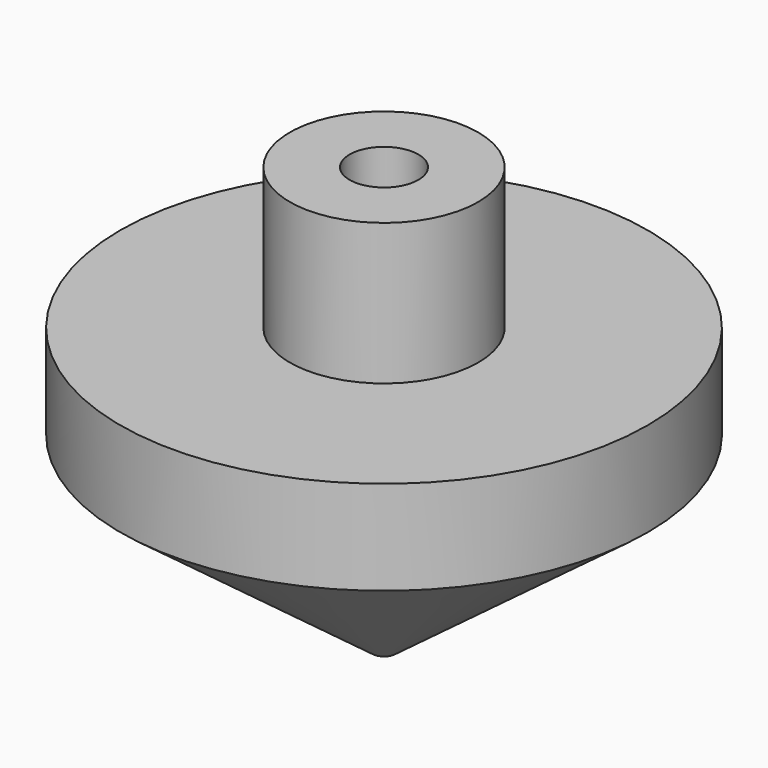
from build123d import *

# Parameters (mm, degrees)
F2_R     = 4.6355
F3_DEPTH = 13.97
F4_R     = 1.5875
F5_DEPTH = 20.32


with BuildPart() as f1:
    # F0 (on Front) → F1 (revolve)
    with BuildSketch(Plane.XZ):
        Polygon((0, 58.42), (0, 0), (35.56, 26.67), (35.56, 39.37), (12.7, 39.37), (12.7, 58.42), align=None)
    revolve(axis=Axis((0, 0, 29.21), (0, 0, -1)))

    # F2 (on face) → F3 (cut)
    with BuildSketch(Plane.XY.offset(58.42)):
        Circle(F2_R)
    extrude(amount=-F3_DEPTH, mode=Mode.SUBTRACT)

    # F4 (on Top) → F5 (cut)
    with BuildSketch(Plane.XY):
        Circle(F4_R)
    extrude(amount=F5_DEPTH, mode=Mode.SUBTRACT)


solid = f1.part
